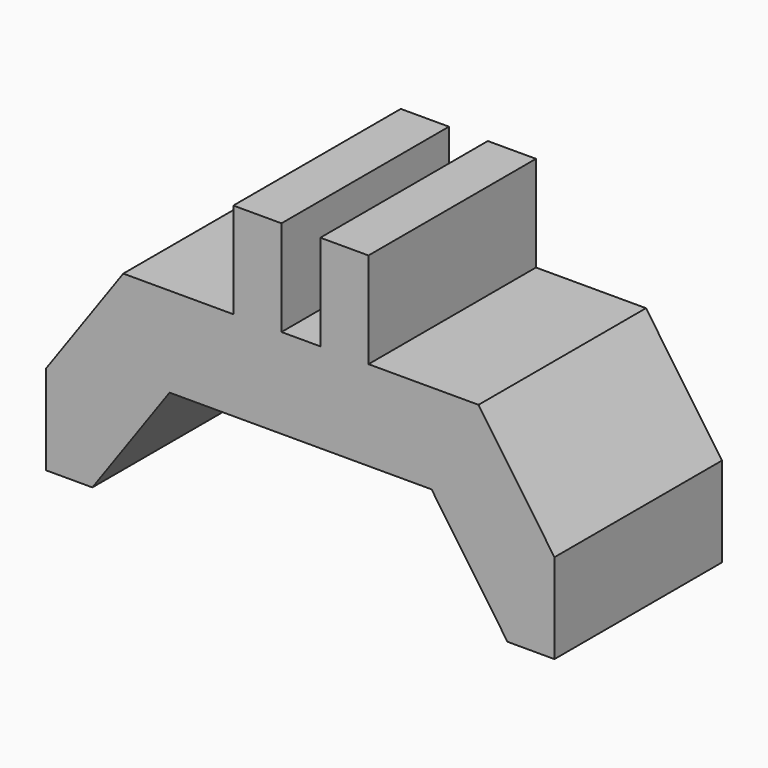
from build123d import *

# Parameters (mm, degrees)
F0_W     = 1.61
F0_H     = 3.2
F1_DEPTH = 7


with BuildPart() as f1:
    # F0 (on Front) → F1 (new body)
    with BuildSketch(Plane.XZ):
        with Locations((-16.887342, 11.080534)):
            Rectangle(F0_W, F0_H)
        Polygon((-16.082342, 9.480534), (-17.692342, 9.480534), (-18.992342, 9.480534), (-20.602342, 9.480534), (-24.282342, 9.480534), (-26.863595, 5.849354), (-26.863595, 2.849354), (-25.315426, 2.849354), (-22.734173, 6.480534), (-13.972723, 6.480534), (-11.433976, 2.81951), (-9.863595, 2.81951), (-9.863595, 5.81951), (-12.402342, 9.480534), align=None)
        with Locations((-19.797342, 11.080534)):
            Rectangle(F0_W, F0_H)
    extrude(amount=F1_DEPTH)


solid = f1.part
